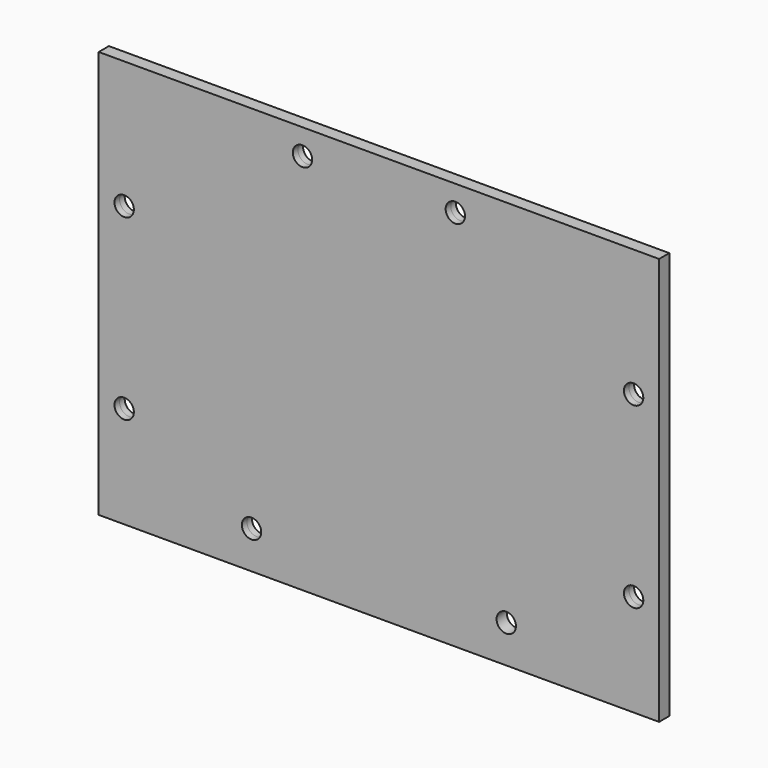
from build123d import *

# Parameters (mm, degrees)
F0_W     = 139.7
F0_H     = 101.6
F1_DEPTH = 1.5875
F2_R     = 2.413
F3_DEPTH = 1.5875


with BuildPart() as f1:
    # F0 (on Front) → F1 (new body, symmetric)
    with BuildSketch(Plane.XZ):
        Rectangle(F0_W, F0_H)
    extrude(amount=F1_DEPTH, both=True)

    # F2 (on Front) → F3 (cut, symmetric)
    with BuildSketch(Plane.XZ):
        with Locations((19.05, 44.45)):
            Circle(F2_R)
        with Locations((-19.05, 44.45)):
            Circle(F2_R)
        with Locations((-63.5, 19.05)):
            Circle(F2_R)
        with Locations((-63.5, -25.4)):
            Circle(F2_R)
        with Locations((63.5, 19.05)):
            Circle(F2_R)
        with Locations((63.5, -25.4)):
            Circle(F2_R)
        with Locations((-31.75, -41.402)):
            Circle(F2_R)
        with Locations((31.75, -41.402)):
            Circle(F2_R)
    extrude(amount=F3_DEPTH, both=True, mode=Mode.SUBTRACT)


solid = f1.part
